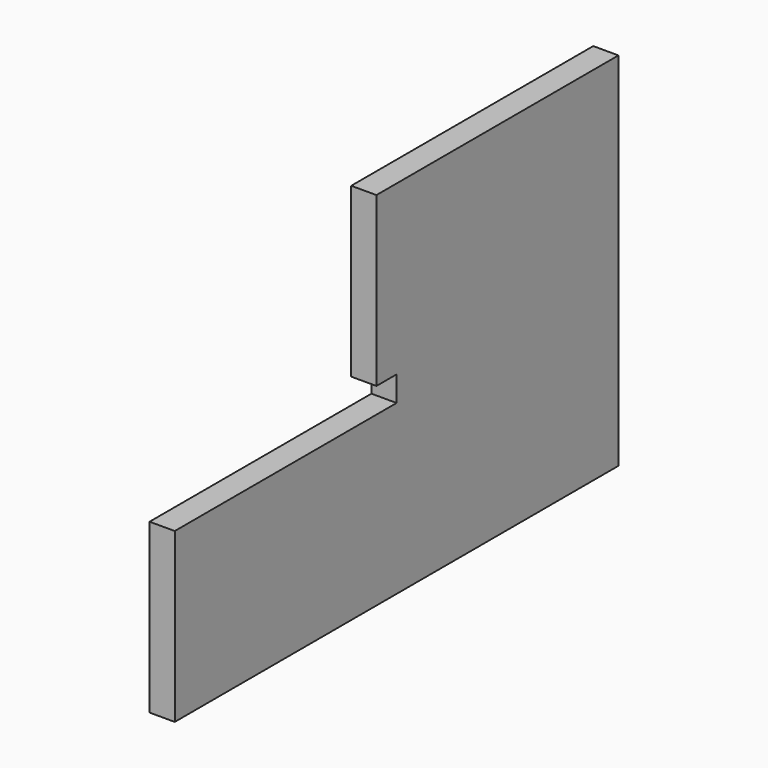
from build123d import *

# Parameters (mm, degrees)
F1_DEPTH = 19.05


with BuildPart() as f1:
    # F0 (on Right) → F1 (new body)
    with BuildSketch(Plane.YZ):
        Polygon((19.05, 19.05), (19.05, 0), (228.6, 0), (228.6, 146.05), (0, 146.05), (0, 19.05), align=None)
        Polygon((19.05, 0), (0, 0), (-190.5, 0), (-190.5, -127), (228.6, -127), (228.6, 0), align=None)
    extrude(amount=F1_DEPTH)


solid = f1.part
